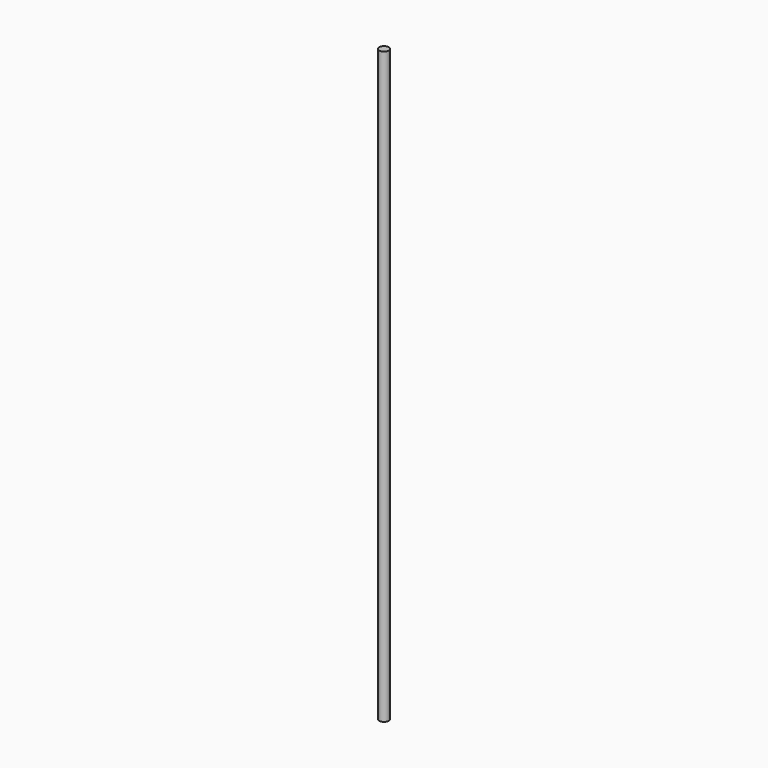
from build123d import *

# Parameters (mm, degrees)
SKETCH_R  = 4
PAD_DEPTH = 500


with BuildPart() as part:
    # Sketch → Pad (new body)
    with BuildSketch(Plane.XY):
        Circle(SKETCH_R)
    extrude(amount=PAD_DEPTH)


solid = part.part
